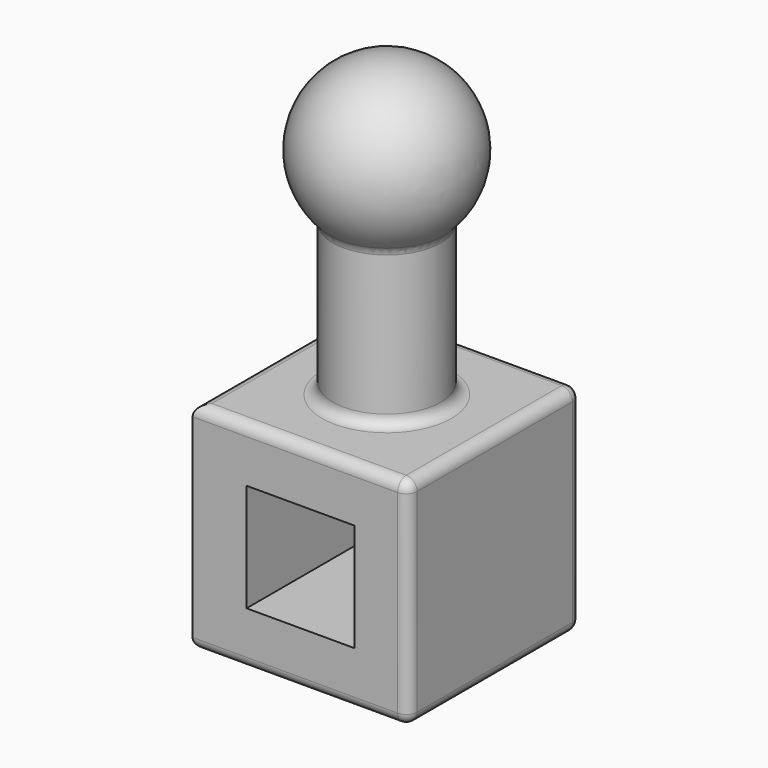
from build123d import *

# Parameters (mm, degrees)
F0_W     = 101.6
F0_H     = 101.6
F1_DEPTH = 101.6
F2_R     = 25.4
F3_DEPTH = 101.6
F6_W     = 50.8
F6_H     = 50.8
F7_DEPTH = 101.6
F8_R     = 5.08


with BuildPart() as f1:
    # F0 (on Top) → F1 (new body)
    with BuildSketch(Plane.XY):
        Rectangle(F0_W, F0_H)
    extrude(amount=F1_DEPTH)

    # F2 (on face) → F3 (join)
    with BuildSketch(Plane.XY.offset(101.6)):
        Circle(F2_R)
    extrude(amount=F3_DEPTH)

    # F4 (on face) → F5 (revolve)
    with BuildSketch(Plane.XY.offset(203.2)):
        with BuildLine():
            Line((0, -25.4), (0, -38.1))
            ThreePointArc((0, -38.1), (38.1, 0), (0, 38.1))
            Line((0, 38.1), (0, 25.4))
            ThreePointArc((0, 25.4), (17.9605122421, 17.9605122421), (25.4, 0))
            ThreePointArc((25.4, 0), (17.9605122421, -17.9605122421), (0, -25.4))
        make_face()
        with BuildLine():
            Line((0, 25.4), (0, -25.4))
            ThreePointArc((0, -25.4), (17.9605122421, -17.9605122421), (25.4, 0))
            ThreePointArc((25.4, 0), (17.9605122421, 17.9605122421), (0, 25.4))
        make_face()
    revolve(axis=Axis((0, 0, 203.2), (0, -1, 0)))

    # F6 (on face) → F7 (cut)
    with BuildSketch(Plane.XZ.offset(50.8)):
        with Locations((0, 50.8)):
            Rectangle(F6_W, F6_H)
    extrude(amount=-F7_DEPTH, mode=Mode.SUBTRACT)

    # F8
    f8_edges = [f1.edges().sort_by_distance(p)[0] for p in [
        (-25.4, 0, 101.6),
        (25.4, 0, 138.200968),
        (-25.4, 0, 174.801937),
        (50.8, 0, 101.6),
        (0, -50.8, 101.6),
        (0, 50.8, 101.6),
        (-50.8, 0, 101.6),
        (50.8, -50.8, 50.8),
        (50.8, 50.8, 50.8),
        (50.8, 0, 0),
        (0, 50.8, 0),
        (-50.8, 0, 0),
        (0, -50.8, 0),
    ]]
    fillet(f8_edges, radius=F8_R)


solid = f1.part
